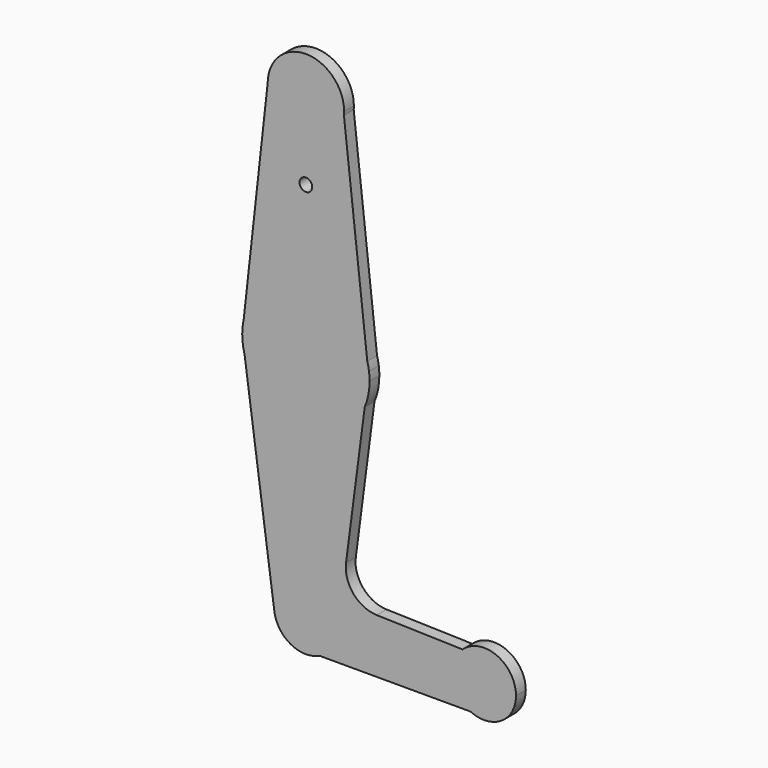
from build123d import *

# Parameters (mm, degrees)
F0_R     = 1.5875
F1_DEPTH = 3.048


with BuildPart() as f1:
    # F0 (on Front) → F1 (new body)
    with BuildSketch(Plane.XZ):
        with BuildLine():
            ThreePointArc((9.48492, 113.427124), (9.514975, 113.863102), (9.525, 114.3))
            ThreePointArc((9.525, 114.3), (0.060685, 123.824807), (-9.524227, 114.421367))
            ThreePointArc((-9.524227, 114.421367), (-0.497509, 104.788002), (9.48492, 113.427124))
        make_face()
        with BuildLine():
            ThreePointArc((9.48492, 113.427124), (-0.497509, 104.788002), (-9.524227, 114.421367))
            Line((-9.524227, 114.421367), (-15.489332, 60.627964))
            ThreePointArc((-15.489332, 60.627964), (-0.379702, 73.020458), (15.305283, 61.364727))
            Line((15.305283, 61.364727), (9.48492, 113.427124))
        make_face()
        with Locations((0, 95.112495)):
            Circle(F0_R, mode=Mode.SUBTRACT)
        with BuildLine():
            Line((-15.875, 57.15), (-15.489332, 60.627964))
            ThreePointArc((-15.489332, 60.627964), (-15.778288, 58.899641), (-15.875, 57.15))
        make_face()
        with BuildLine():
            ThreePointArc((15.305283, 61.364727), (-0.379702, 73.020458), (-15.489332, 60.627964))
            Line((-15.489332, 60.627964), (-15.875, 57.15))
            Line((-15.875, 57.15), (-15.285187, 52.862963))
            ThreePointArc((-15.285187, 52.862963), (-0.943722, 41.303076), (14.668351, 51.07916))
            Line((14.668351, 51.07916), (15.734881, 59.25455))
            ThreePointArc((15.734881, 59.25455), (15.555905, 60.316931), (15.305283, 61.364727))
        make_face()
        with BuildLine():
            Line((-15.285187, 52.862963), (-15.875, 57.15))
            ThreePointArc((-15.875, 57.15), (-15.726856, 54.98629), (-15.285187, 52.862963))
        make_face()
        with BuildLine():
            ThreePointArc((15.875, 57.15), (15.839932, 58.204605), (15.734881, 59.25455))
            Line((15.734881, 59.25455), (14.668351, 51.07916))
            ThreePointArc((14.668351, 51.07916), (15.570416, 54.055202), (15.875, 57.15))
        make_face()
        with BuildLine():
            ThreePointArc((14.668351, 51.07916), (-0.943722, 41.303076), (-15.285187, 52.862963))
            Line((-15.285187, 52.862963), (-7.863428, -1.081855))
            ThreePointArc((-7.863428, -1.081855), (-0.542194, 7.91896), (7.9375, 0))
            ThreePointArc((7.9375, 0), (6.707453, -4.244288), (3.398545, -7.17313))
            Line((3.398545, -7.17313), (41.051455, -7.17313))
            ThreePointArc((41.051455, -7.17313), (36.604764, -1.20672), (39.052875, 5.820219))
            Line((39.052875, 5.820219), (17.676814, 6.4068))
            ThreePointArc((17.676814, 6.4068), (11.849313, 9.191003), (10.011494, 15.382447))
            Line((10.011494, 15.382447), (14.668351, 51.07916))
        make_face()
        with BuildLine():
            ThreePointArc((7.9375, 0), (-0.542194, 7.91896), (-7.863428, -1.081855))
            ThreePointArc((-7.863428, -1.081855), (-3.776202, -6.981705), (3.398545, -7.17313))
            ThreePointArc((3.398545, -7.17313), (6.707453, -4.244288), (7.9375, 0))
        make_face()
        with BuildLine():
            ThreePointArc((39.052875, 5.820219), (36.604764, -1.20672), (41.051455, -7.17313))
            ThreePointArc((41.051455, -7.17313), (48.694288, -6.707453), (52.3875, 0))
            ThreePointArc((52.3875, 0), (47.625234, 7.274737), (39.052875, 5.820219))
        make_face()
    extrude(amount=F1_DEPTH)


solid = f1.part
